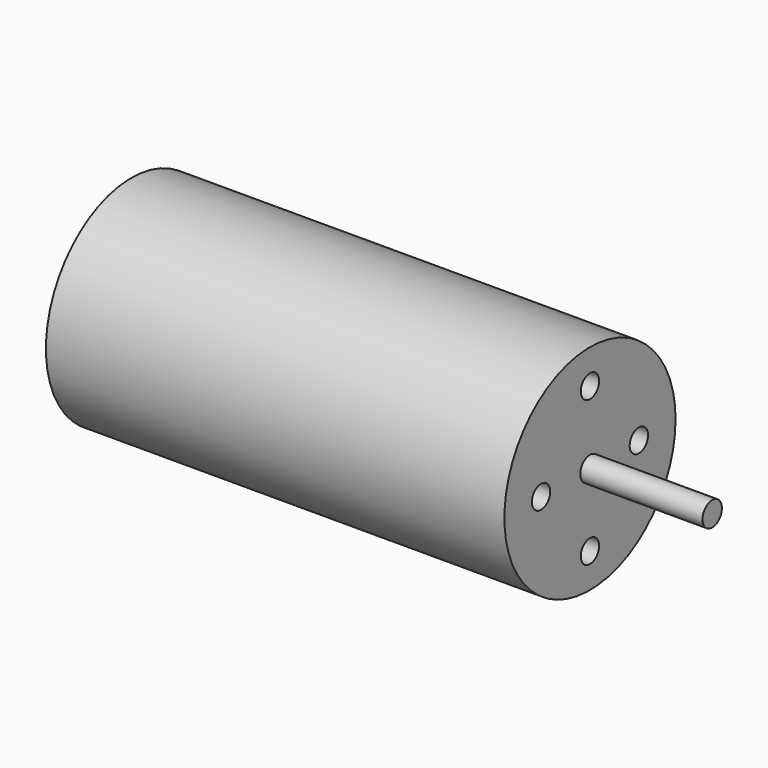
from build123d import *

# Parameters (mm, degrees)
F0_R     = 14
F1_DEPTH = 60
F2_R     = 1.5875
F3_DEPTH = 16
F4_R     = 1.5
F5_DEPTH = 6


with BuildPart() as f1:
    # F0 (on Right) → F1 (new body)
    with BuildSketch(Plane.YZ):
        Circle(F0_R)
    extrude(amount=-F1_DEPTH)

    # F2 (on face) → F3 (join)
    with BuildSketch(Plane.YZ):
        Circle(F2_R)
    extrude(amount=F3_DEPTH)

    # F4 (on face) → F5 (cut)
    with BuildSketch(Plane.YZ):
        with Locations((0, 9.5)):
            Circle(F4_R)
        with Locations((8, 0)):
            Circle(F4_R)
        with Locations((0, -9.5)):
            Circle(F4_R)
        with Locations((-8, 0)):
            Circle(F4_R)
    extrude(amount=-F5_DEPTH, mode=Mode.SUBTRACT)


solid = f1.part
